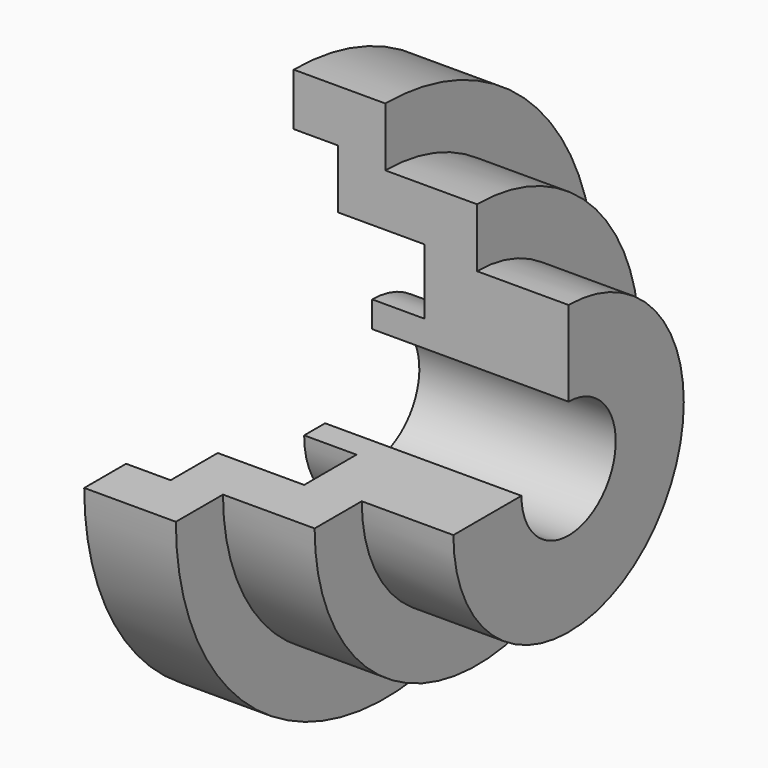
from build123d import *

# Parameters (mm, degrees)
REVOLUTION_ANGLE = 270


with BuildPart() as part:
    # Sketch → Revolution (revolve)
    with BuildSketch(Plane.XY):
        Polygon((0, -22.5), (-75, -22.5), (-75, -32.5), (-55, -32.5), (-55, -57.5), (-88, -57.5), (-88, -80), (-105, -80), (-105, -100), (-70, -100), (-70, -77.5), (-35, -77.5), (-35, -55), (0, -55), align=None)
    revolve(axis=Axis((0, 0, 0), (1, 0, 0)), revolution_arc=REVOLUTION_ANGLE)


solid = part.part
